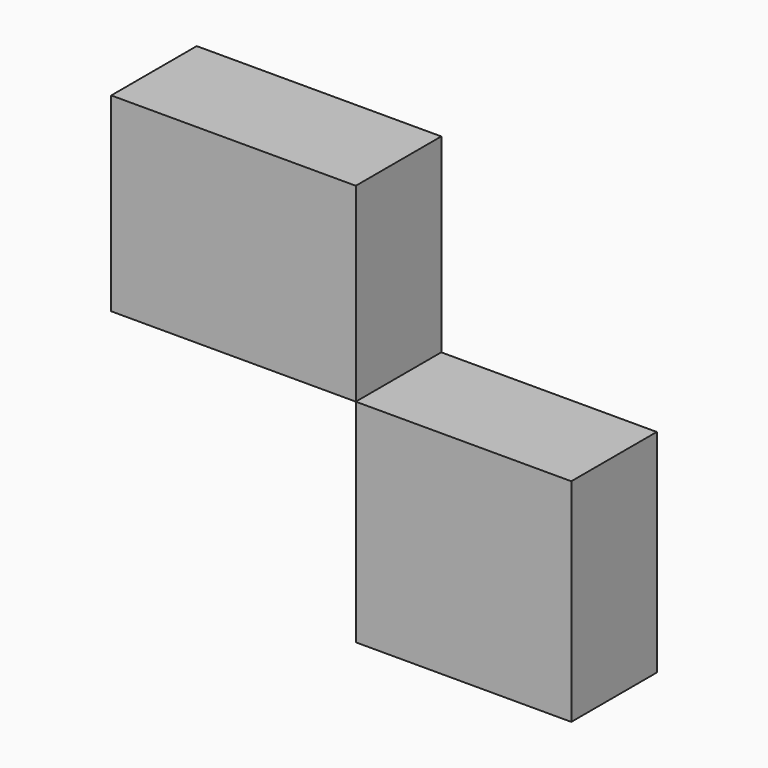
from build123d import *

# Parameters (mm, degrees)
F0_R        = 54.7360857457
F1_DEPTH    = 25.4
F2_R        = 36.2738020699
F3_DEPTH    = 25.4
F4_R        = 11.1169044366
F5_DEPTH    = 25.4
F1_FACE_R   = 54.7360857457
F1_FACE_R_2 = 36.2738020699
F6_DEPTH    = 25.4
F8_W        = 58.1367611885
F8_H        = 45.1855063438
F9_DEPTH    = 25.4
F8_W_2      = 51.2294247746
F8_H_2      = 50.3660067916


with BuildPart() as f1:
    # F0 (on Front) → F1 (new body)
    with BuildSketch(Plane.XZ):
        Circle(F0_R)
    extrude(amount=F1_DEPTH)

    # F2 (on face) → F3 (join)
    with BuildSketch(Plane.XZ.offset(25.4)):
        Circle(F2_R)
    extrude(amount=F3_DEPTH)

    # F4 (on face) → F5 (join)
    with BuildSketch(Plane.XZ.offset(50.8)):
        Circle(F4_R)
    extrude(amount=F5_DEPTH)

    # F1_face (on face) + F2 (on face) → F6 (intersect)
    with BuildSketch(Plane.XZ.offset(25.4)):
        Circle(F1_FACE_R)
        Circle(F1_FACE_R_2, mode=Mode.SUBTRACT)
    with BuildSketch(Plane.XZ.offset(25.4)):
        Circle(F2_R)
    extrude(amount=-F6_DEPTH, mode=Mode.INTERSECT)


with BuildPart() as f9:
    # F8 (on Front) → F9 (new body)
    with BuildSketch(Plane.XZ):
        with Locations((-29.0683805943, 22.5927531719)):
            Rectangle(F8_W, F8_H)
    extrude(amount=F9_DEPTH)


with BuildPart() as f9b:
    # F8 (on Front) → F9, piece 2 (new body)
    with BuildSketch(Plane.XZ):
        with Locations((25.6147123873, -25.1830033958)):
            Rectangle(F8_W_2, F8_H_2)
    extrude(amount=F9_DEPTH)


solid = Compound([f9.part, f9b.part])
